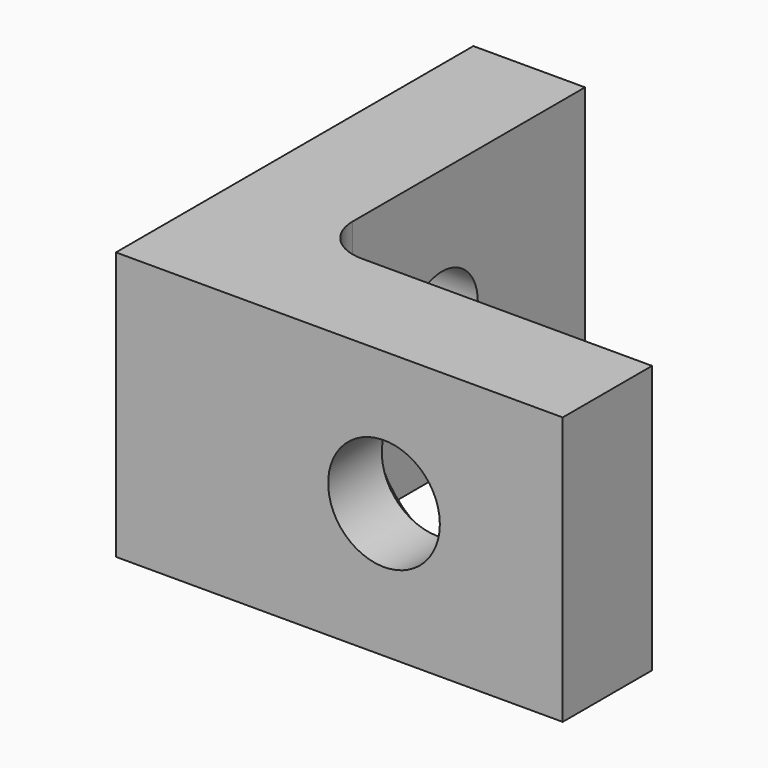
from build123d import *

# Parameters (mm, degrees)
PAD_DEPTH           = 12
SKETCH001_R         = 2
HOLE_DEPTH          = 5.001
HOLE001_D           = 5
HOLE001_DEPTH       = 25
HOLE001_CSINK_D     = 9
HOLE001_CSINK_ANGLE = 90
FILLET_R            = 2


with BuildPart() as part:
    # Sketch → Pad (new body)
    with BuildSketch(Plane.XY):
        Polygon((0, 15), (0, 0), (15, 0), (15, -5), (-5, -5), (-5, 15), align=None)
    extrude(amount=PAD_DEPTH)

    # Sketch001 (on Face1 of Pad) → Hole (cut, through all)
    with BuildSketch(Plane.YZ):
        with Locations((7, 6)):
            Circle(SKETCH001_R)
    extrude(amount=-HOLE_DEPTH, mode=Mode.SUBTRACT)

    # Hole001
    with Locations(Plane(origin=(0, 0, 0), x_dir=(-1, 0, 0), z_dir=(0, 1, 0))):
        with Locations((-7, 6)):
            CounterSinkHole(HOLE001_D / 2, HOLE001_CSINK_D / 2, depth=HOLE001_DEPTH, counter_sink_angle=HOLE001_CSINK_ANGLE)

    # Fillet
    fillet_edges = [part.edges().sort_by_distance(p)[0] for p in [
        (0, 0, 6),
    ]]
    fillet(fillet_edges, radius=FILLET_R)


solid = part.part
